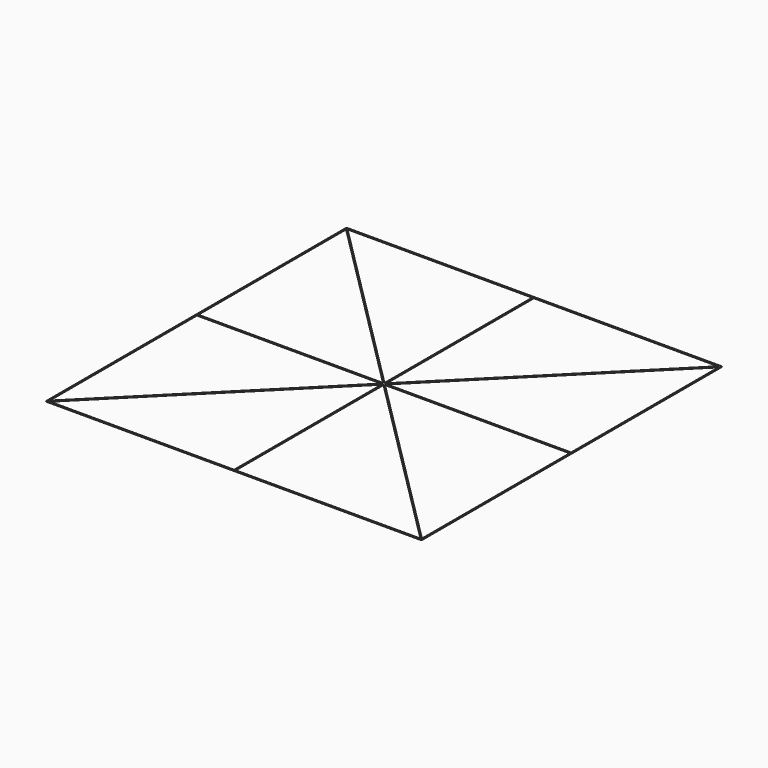
from build123d import *

# Parameters (mm, degrees)
F1_W     = 177.8
F1_H     = 177.8
F2_DEPTH = 0.254


with BuildPart() as f2:
    # F1 (on Top) → F2 (new body)
    with BuildSketch(Plane.XY):
        Rectangle(F1_W, F1_H)
        Polygon((-0.254, -88.392), (-88.03279, -88.392), (-0.254, -0.61321), align=None, mode=Mode.SUBTRACT)
        Polygon((-0.61321, -0.254), (-88.392, -88.03279), (-88.392, -0.254), align=None, mode=Mode.SUBTRACT)
        Polygon((88.03279, -88.392), (0.254, -88.392), (0.254, -0.61321), align=None, mode=Mode.SUBTRACT)
        Polygon((88.392, -0.254), (88.392, -88.03279), (0.61321, -0.254), align=None, mode=Mode.SUBTRACT)
        Polygon((-88.392, 0.254), (-88.392, 88.03279), (-0.61321, 0.254), align=None, mode=Mode.SUBTRACT)
        Polygon((-0.254, 0.61321), (-88.03279, 88.392), (-0.254, 88.392), align=None, mode=Mode.SUBTRACT)
        Polygon((0.61321, 0.254), (88.392, 88.03279), (88.392, 0.254), align=None, mode=Mode.SUBTRACT)
        Polygon((0.254, 0.61321), (0.254, 88.392), (88.03279, 88.392), align=None, mode=Mode.SUBTRACT)
    extrude(amount=F2_DEPTH)


solid = f2.part
